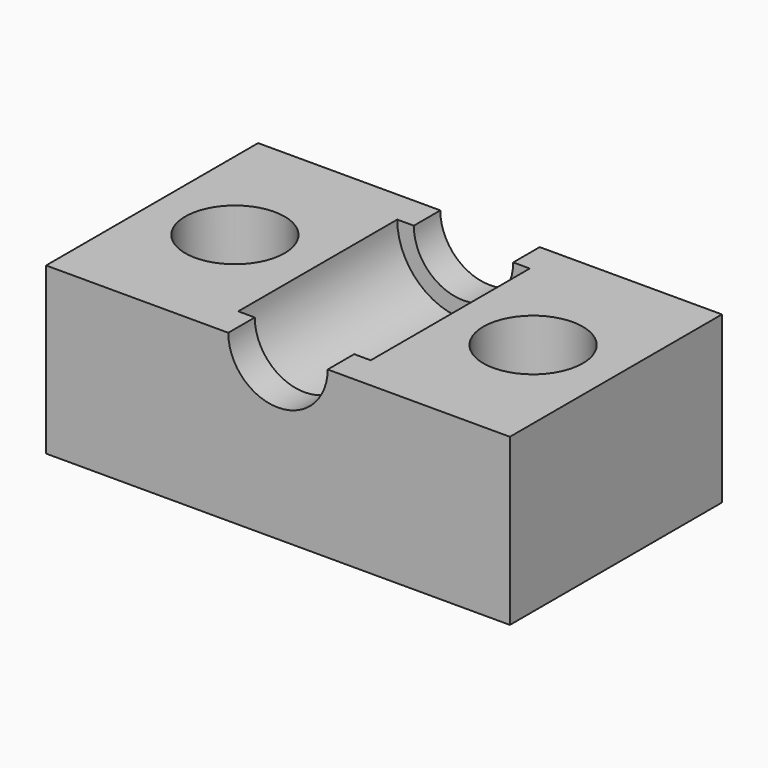
from build123d import *

# Parameters (mm, degrees)
F0_W     = 14
F0_H     = 8
F1_DEPTH = 5
F4_START = -1
F2_R     = 2
F4_DEPTH = 6
F5_DEPTH = 25
F7_DEPTH = 5


with BuildPart() as f1:
    # F0 (on Top) → F1 (new body)
    with BuildSketch(Plane.XY):
        with Locations((-5.3940967023, -6.1688271388)):
            Rectangle(F0_W, F0_H)
    extrude(amount=F1_DEPTH)

    # F2 (on face) → F4 (cut)
    with BuildSketch(Plane.XZ.offset(10.1688271388).offset(F4_START)):
        with Locations((-5.3940967023, 5)):
            Circle(F2_R)
    extrude(amount=-F4_DEPTH, mode=Mode.SUBTRACT)

    # F3 (on face) → F5 (cut)
    with BuildSketch(Plane.XZ.offset(10.1688271388)):
        with BuildLine():
            ThreePointArc((-6.8940967023, 5), (-5.3940967023, 6.5), (-3.8940967023, 5))
            Line((-3.8940967023, 5), (-3.3940967023, 5))
            ThreePointArc((-3.3940967023, 5), (-5.3940967023, 7), (-7.3940967023, 5))
            Line((-7.3940967023, 5), (-6.8940967023, 5))
        make_face()
        with BuildLine():
            ThreePointArc((-6.8940967023, 5), (-5.3940967023, 3.5), (-3.8940967023, 5))
            Line((-3.8940967023, 5), (-6.8940967023, 5))
        make_face()
        with BuildLine():
            Line((-6.8940967023, 5), (-3.8940967023, 5))
            ThreePointArc((-3.8940967023, 5), (-5.3940967023, 6.5), (-6.8940967023, 5))
        make_face()
    extrude(amount=-F5_DEPTH, mode=Mode.SUBTRACT)

    # F6 (on face) → F7 (cut)
    with BuildSketch(Plane.XY.offset(5)):
        with BuildLine():
            ThreePointArc((-11.3940967023, -6.1688271388), (-9.8940967023, -7.6688271388), (-8.3940967023, -6.1688271388))
            Line((-8.3940967023, -6.1688271388), (-11.3940967023, -6.1688271388))
        make_face()
        with BuildLine():
            Line((-11.3940967023, -6.1688271388), (-8.3940967023, -6.1688271388))
            ThreePointArc((-8.3940967023, -6.1688271388), (-9.8940967023, -4.6688271388), (-11.3940967023, -6.1688271388))
        make_face()
        with BuildLine():
            ThreePointArc((0.6059032977, -6.1688271388), (-0.8940967023, -4.6688271388), (-2.3940967023, -6.1688271388))
            Line((-2.3940967023, -6.1688271388), (0.6059032977, -6.1688271388))
        make_face()
        with BuildLine():
            Line((0.6059032977, -6.1688271388), (-2.3940967023, -6.1688271388))
            ThreePointArc((-2.3940967023, -6.1688271388), (-0.8940967023, -7.6688271388), (0.6059032977, -6.1688271388))
        make_face()
    extrude(amount=-F7_DEPTH, mode=Mode.SUBTRACT)


solid = f1.part
